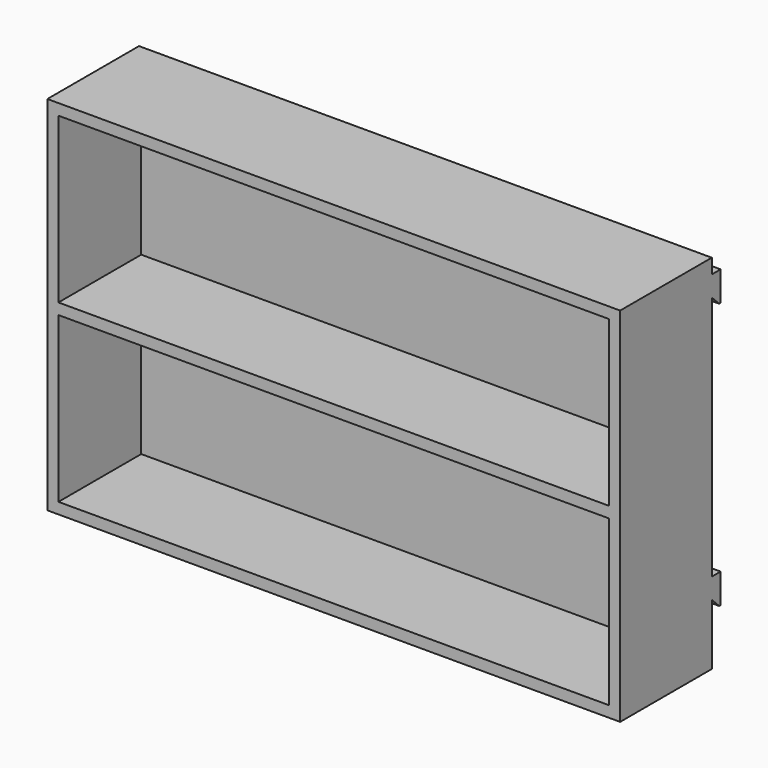
from build123d import *

# Parameters (mm, degrees)
F0_W     = 984.25
F0_H     = 622.3
F1_DEPTH = 177.8
F2_W     = 984.25
F2_H     = 622.3
F3_DEPTH = 19.05
F0_W_2   = 946.15
F0_H_2   = 19.05
F4_DEPTH = 177.8
F6_DEPTH = 984.25


with BuildPart() as f1:
    # F0 (on Front) → F1 (new body)
    with BuildSketch(Plane.XZ):
        Rectangle(F0_W, F0_H)
        Polygon((473.075, -292.1), (-473.075, -292.1), (-473.075, -9.525), (-473.075, 9.525), (-473.075, 292.1), (473.075, 292.1), (473.075, 9.525), (473.075, -9.525), align=None, mode=Mode.SUBTRACT)
    extrude(amount=-F1_DEPTH)

    # F2 (on face) → F3 (join)
    with BuildSketch(Plane(origin=(0, 177.8, 0), x_dir=(-1, 0, 0), z_dir=(0, 1, 0))):
        Rectangle(F2_W, F2_H)
    extrude(amount=F3_DEPTH)

    # F0 (on Front) → F4 (join)
    with BuildSketch(Plane.XZ):
        Rectangle(F0_W_2, F0_H_2)
    extrude(amount=-F4_DEPTH)

    # F5 (on face) → F6 (join)
    with BuildSketch(Plane.YZ.offset(492.125)):
        Polygon((215.9, 285.75), (196.85, 285.75), (196.85, 250.825), (212.725, 234.95), (215.9, 234.95), align=None)
        Polygon((215.9, -171.45), (196.85, -171.45), (196.85, -206.375), (212.725, -222.25), (215.9, -222.25), align=None)
    extrude(amount=-F6_DEPTH)


solid = f1.part
